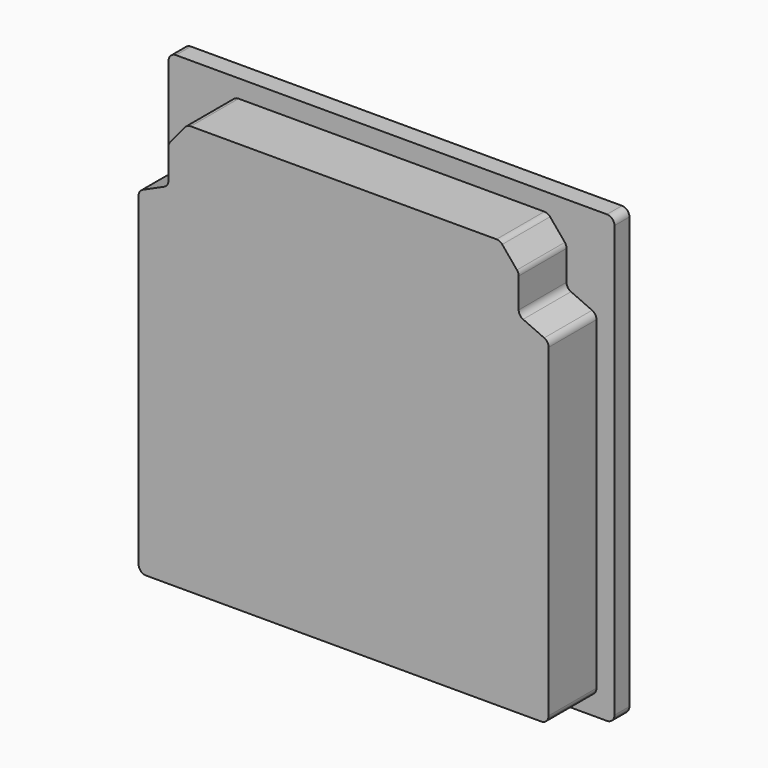
from build123d import *

# Parameters (mm, degrees)
F0_W     = 29.8
F0_H     = 29.8
F1_DEPTH = 1.25
F3_DEPTH = 4
F4_R     = 0.5


with BuildPart() as f1:
    # F0 (on Front) → F1 (new body)
    with BuildSketch(Plane.XZ):
        Rectangle(F0_W, F0_H)
    extrude(amount=F1_DEPTH)

    # F2 (on face) → F3 (join)
    with BuildSketch(Plane.XZ.offset(1.25)):
        Polygon((-13.7, -13.7), (0, -13.7), (13.7, -13.7), (13.7, 8.8), (11.7, 9.7), (11.7, 12.2), (10.45, 13.7), (0, 13.7), (-10.45, 13.7), (-11.7, 12.2), (-11.7, 9.7), (-13.7, 8.8), align=None)
    extrude(amount=F3_DEPTH)

    # F4
    f4_edges = [f1.edges().sort_by_distance(p)[0] for p in [
        (-14.9, -0.625, 14.9),
        (-14.9, -0.625, -14.9),
        (-11.7, -3.25, 12.2),
        (-10.45, -3.25, 13.7),
        (-11.7, -3.25, 9.7),
        (-13.7, -3.25, 8.8),
        (-13.7, -3.25, -13.7),
        (14.9, -0.625, 14.9),
        (14.9, -0.625, -14.9),
        (13.7, -3.25, -13.7),
        (13.7, -3.25, 8.8),
        (11.7, -3.25, 9.7),
        (11.7, -3.25, 12.2),
        (10.45, -3.25, 13.7),
    ]]
    fillet(f4_edges, radius=F4_R)


solid = f1.part
